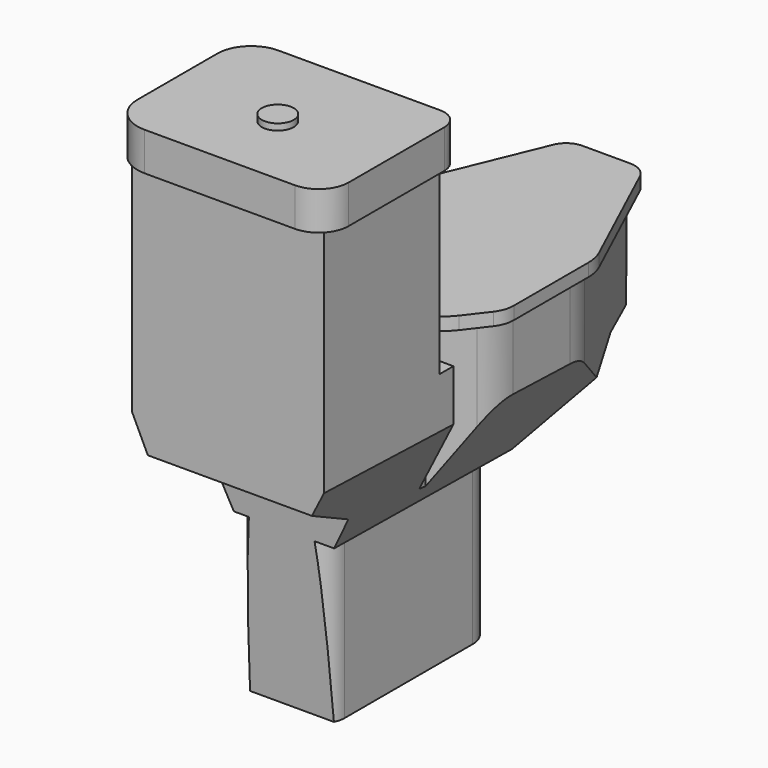
from build123d import *

# Parameters (mm, degrees)
PAD_DEPTH       = 300
POCKET_DEPTH    = 488.796135
SKETCH002_W     = 818.782761
SKETCH002_H     = 489.886894
POCKET001_DEPTH = 250
POCKET002_DEPTH = 732.016625
PAD001_DEPTH    = 20
PAD002_DEPTH    = 60
SKETCH006_R     = 24.969388
PAD003_DEPTH    = 10


with BuildPart() as part:
    # Sketch → Pad (new body)
    with BuildSketch(Plane.YZ):
        Polygon((0, 0), (-19.795493, 299.346185), (-123.951116, 355.086699), (-123.951116, 815.086699), (101.470154, 815.086699), (101.470154, 464.449951), (133.118958, 464.449951), (142.856949, 488.795135), (598.112183, 488.795135), (593.243164, 334.823194), (513.112758, 334.823194), (317.295496, 246.798924), (302.479552, 0), align=None)
    extrude(amount=PAD_DEPTH)

    # Sketch001 (on Face3 of Pad) → Pocket (cut, through all)
    with BuildSketch(Plane(origin=(0, 0, 488.795135), x_dir=(0, -1, 0), z_dir=(0, 0, 1))):
        with BuildLine():
            Line((-398.685885, 289.727159), (-579.183769, 208.886406))
            ThreePointArc((-579.183769, 208.886406), (-593.86479, 196.305532), (-599.345764, 177.764505))
            Line((-599.345764, 177.764505), (-599.345764, 114.282631))
            ThreePointArc((-599.345764, 114.282631), (-596.613394, 105.037965), (-589.294345, 98.764115))
            Line((-589.294345, 98.764115), (-390.579573, 9.719232))
            ThreePointArc((-390.579573, 9.719232), (-368.364571, 2.45696), (-345.122148, 0))
            Line((-345.122148, 0), (-228.797617, 0))
            ThreePointArc((-228.797617, 0), (-216.966667, 1.836648), (-206.24937, 7.173706))
            Line((-206.24937, 7.173706), (-143.517624, 51.585079))
            Line((-143.517624, 51.585079), (-131.65593, 52.432343))
            Line((-131.65593, 52.432343), (-131.65593, -48.39209))
            Line((-131.65593, -48.39209), (-645.098022, -48.39209))
            Line((-645.098022, -48.39209), (-645.098022, 347.280304))
            Line((-645.098022, 347.280304), (-129.11412, 347.280304))
            Line((-129.11412, 347.280304), (-129.11412, 246.455841))
            Line((-129.11412, 246.455841), (-142.67038, 245.608597))
            Line((-142.67038, 245.608597), (-196.823145, 282.503901))
            ThreePointArc((-196.823145, 282.503901), (-221.003748, 294.141504), (-247.539678, 298.138977))
            Line((-247.539678, 298.138977), (-359.325075, 298.138977))
            ThreePointArc((-359.325075, 298.138977), (-379.449886, 296.012544), (-398.685885, 289.727159))
        make_face()
    extrude(amount=-POCKET_DEPTH, mode=Mode.SUBTRACT)

    # Sketch002 (on Face10 of Pocket) → Pocket001 (cut)
    with BuildSketch(Plane.YX):
        with Locations((231.305886, 120.791111)):
            Rectangle(SKETCH002_W, SKETCH002_H)
        with BuildLine():
            Line((-19.853376, 184.187614), (-19.853376, 108.753578))
            ThreePointArc((-19.853376, 108.753578), (-12.888522, 91.938931), (3.926125, 84.974077))
            Line((3.926125, 84.974077), (257.438717, 84.974077))
            ThreePointArc((257.438717, 84.974077), (292.99976, 99.703943), (307.729626, 135.264986))
            Line((307.729626, 135.264986), (307.729626, 178.492494))
            ThreePointArc((307.729626, 178.492494), (295.484184, 208.055606), (265.921072, 220.301047))
            Line((265.921072, 220.301047), (16.260057, 220.301047))
            ThreePointArc((16.260057, 220.301047), (-9.275997, 209.723668), (-19.853376, 184.187614))
        make_face(mode=Mode.SUBTRACT)
    extrude(amount=-POCKET001_DEPTH, mode=Mode.SUBTRACT)

    # Sketch003 (on Face37 of Pocket001) → Pocket002 (cut, through all)
    with BuildSketch(Plane(origin=(0, 582.073055, -18.406761), x_dir=(0, 0.031607, 0.9995), z_dir=(0, 0.9995, -0.031607))):
        Polygon((435.498799, 463.280181), (-86.974939, 463.280181), (-86.974939, 225.514861), (240.394508, 225.514861), (435.498799, 323.83508), align=None)
        Polygon((-86.974939, -130.245743), (441.643773, -130.245743), (441.643773, -18.749703), (232.713184, 81.106918), (-86.974939, 81.106918), align=None)
    extrude(amount=-POCKET002_DEPTH, mode=Mode.SUBTRACT)

    # Sketch004 (on Face13 of Pocket002) → Pad001 (join)
    with BuildSketch(Plane(origin=(0, 0, 488.795135), x_dir=(0, -1, 0), z_dir=(0, 0, 1))):
        with BuildLine():
            Line((-171.192747, 274.879835), (-205.725164, 301.3696))
            ThreePointArc((-205.725164, 301.3696), (-218.875285, 308.396663), (-233.586133, 310.82489))
            Line((-233.586133, 310.82489), (-379.426666, 310.82489))
            ThreePointArc((-379.426666, 310.82489), (-394.200864, 309.220658), (-408.286409, 304.482739))
            Line((-408.286409, 304.482739), (-596.739704, 217.45158))
            ThreePointArc((-596.739704, 217.45158), (-610.910495, 205.093416), (-616.18866, 187.046905))
            Line((-616.18866, 187.046905), (-616.18866, 112.117576))
            ThreePointArc((-616.18866, 112.117576), (-610.808276, 94.401768), (-596.484569, 82.670196))
            Line((-596.484569, 82.670196), (-395.775735, -0.157481))
            ThreePointArc((-395.775735, -0.157481), (-370.410961, -7.824527), (-344.039491, -10.413148))
            Line((-344.039491, -10.413148), (-224.040587, -10.413148))
            ThreePointArc((-224.040587, -10.413148), (-208.179544, -7.736142), (-194.07573, -0.001706))
            Line((-194.07573, -0.001706), (-159.302641, 27.480226))
            ThreePointArc((-159.302641, 27.480226), (-146.077517, 43.952537), (-141.354309, 64.542152))
            Line((-141.354309, 64.542152), (-141.354309, 214.384436))
            ThreePointArc((-141.354309, 214.384436), (-149.219607, 248.111375), (-171.192747, 274.879835))
        make_face()
    extrude(amount=PAD001_DEPTH)

    # Sketch005 (on Face12 of Pad001) → Pad002 (join)
    with BuildSketch(Plane(origin=(0, 0, 815.086699), x_dir=(0, -1, 0), z_dir=(0, 0, 1))):
        with BuildLine():
            Line((-121.608505, 285.532054), (-121.608505, 32.202011))
            ThreePointArc((-121.608505, 32.202011), (-106.07924, -5.28895), (-68.58828, -20.818214))
            Line((-68.58828, -20.818214), (87.40585, -20.818214))
            ThreePointArc((87.40585, -20.818214), (127.524005, -4.20073), (144.141488, 35.917424))
            Line((144.141488, 35.917424), (144.141488, 270.594498))
            ThreePointArc((144.141488, 270.594498), (130.426894, 303.704458), (97.316935, 317.419052))
            Line((97.316935, 317.419052), (-89.721507, 317.419052))
            ThreePointArc((-89.721507, 317.419052), (-112.269019, 308.079566), (-121.608505, 285.532054))
        make_face()
    extrude(amount=-PAD002_DEPTH)

    # Sketch006 (on Face70 of Pad002) → Pad003 (join)
    with BuildSketch(Plane(origin=(0, 0, 815.086699), x_dir=(0, -1, 0), z_dir=(0, 0, 1))):
        with Locations((24.969388, 148.605312)):
            Circle(SKETCH006_R)
    extrude(amount=PAD003_DEPTH)


solid = part.part
